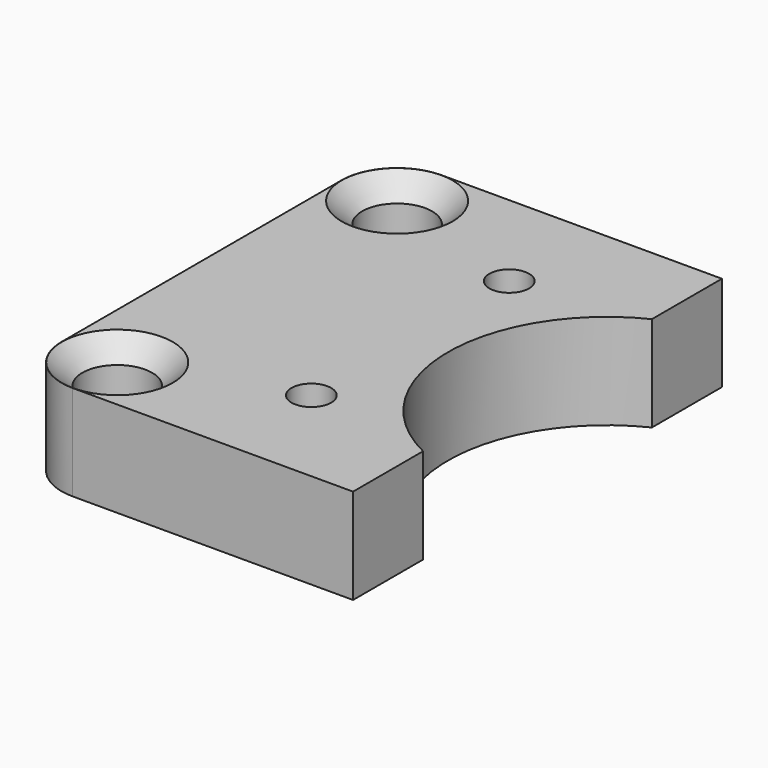
from build123d import *

# Parameters (mm, degrees)
SKETCH_R     = 2.2
SKETCH_R_2   = 1.25
PAD_DEPTH    = 6
CHAMFER_SIZE = 1.29


with BuildPart() as part:
    # Sketch → Pad (new body)
    with BuildSketch(Plane.XY):
        with BuildLine():
            Line((0, 14.5), (17.63, 14.5))
            Line((17.63, 14.5), (17.63, 8.994615))
            ThreePointArc((17.63, 8.994615), (12, 0), (17.63, -8.994615))
            Line((17.63, -8.994615), (17.63, -14.5))
            Line((17.63, -14.5), (0, -14.5))
            ThreePointArc((-3.5, -11), (-2.474874, -13.474874), (0, -14.5))
            Line((-3.5, -11), (-3.5, 11))
            ThreePointArc((0, 14.5), (-2.474874, 13.474874), (-3.5, 11))
        make_face()
        with Locations((0, 11)):
            Circle(SKETCH_R, mode=Mode.SUBTRACT)
        with Locations((0, -11)):
            Circle(SKETCH_R, mode=Mode.SUBTRACT)
        with Locations((9.63, 7.78)):
            Circle(SKETCH_R_2, mode=Mode.SUBTRACT)
        with Locations((9.63, -7.78)):
            Circle(SKETCH_R_2, mode=Mode.SUBTRACT)
    extrude(amount=PAD_DEPTH)

    # Chamfer
    chamfer_edges = [part.edges().sort_by_distance(p)[0] for p in [
        (-2.2, -11, 6),
        (-2.2, 11, 6),
    ]]
    chamfer(chamfer_edges, length=CHAMFER_SIZE)


solid = part.part
